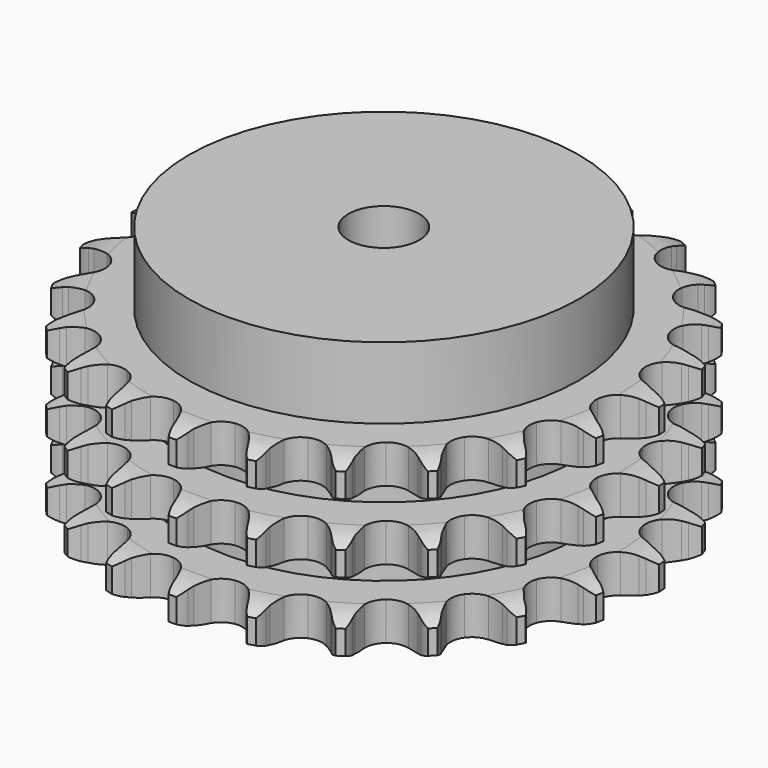
from build123d import *

# Parameters (mm, degrees)
PAD_DEPTH         = 49.8
SKETCH001_R       = 55
PAD001_DEPTH      = 70
SKETCH002_R       = 10
POCKET_DEPTH      = 0.001
POCKET_DEPTH_BACK = 70.001


with BuildPart() as part:
    # Sprocket → Pad (new body)
    with BuildSketch(Plane.XY):
        with BuildLine():
            ThreePointArc((-10.340591, 75.233389), (-8.706627, 73.474325), (-7.542965, 71.374317))
            Line((-7.542965, 71.374317), (-6.957807, 69.929158))
            ThreePointArc((-6.957807, 69.929158), (-6.022333, 68.005597), (-4.834996, 66.226432))
            ThreePointArc((-4.834996, 66.226432), (-2.694216, 64.47463), (0, 63.847774))
            ThreePointArc((0, 63.847774), (2.694216, 64.47463), (4.834996, 66.226432))
            ThreePointArc((4.834996, 66.226432), (6.022333, 68.005597), (6.957807, 69.929158))
            Line((6.957807, 69.929158), (7.542965, 71.374317))
            ThreePointArc((7.542965, 71.374317), (8.706627, 73.474325), (10.340591, 75.233389))
            ThreePointArc((10.340591, 75.233389), (11.439374, 73.098718), (11.993309, 70.762631))
            Line((11.993309, 70.762631), (12.166869, 69.213188))
            ThreePointArc((12.166869, 69.213188), (12.548682, 67.108571), (13.211976, 65.075043))
            ThreePointArc((13.211976, 65.075043), (14.80074, 62.810627), (17.225923, 61.480126))
            ThreePointArc((17.225923, 61.480126), (19.989354, 61.356845), (22.523379, 62.46611))
            Line((22.523379, 62.46611), (25.566453, 65.458801))
            ThreePointArc((25.566453, 65.458801), (26.027866, 66.087446), (26.519812, 66.692496))
            ThreePointArc((26.519812, 66.692496), (28.206897, 68.400678), (30.25486, 69.653673))
            ThreePointArc((30.25486, 69.653673), (30.736969, 67.301713), (30.640094, 64.902805))
            Line((30.640094, 64.902805), (30.389183, 63.363994))
            ThreePointArc((30.389183, 63.363994), (30.189019, 61.234409), (30.279076, 59.097335))
            ThreePointArc((30.279076, 59.097335), (31.197993, 56.488247), (33.174279, 54.552777))
            ThreePointArc((33.174279, 54.552777), (35.801974, 53.688504), (38.541306, 54.072962))
            Line((38.541306, 54.072962), (42.278953, 56.133664))
            ThreePointArc((42.278953, 56.133664), (42.892862, 56.61451), (43.529805, 57.064398))
            ThreePointArc((43.529805, 57.064398), (45.615191, 58.254066), (47.925263, 58.908062))
            ThreePointArc((47.925263, 58.908062), (47.754944, 56.513248), (47.014443, 54.229435))
            Line((47.014443, 54.229435), (46.35767, 52.815382))
            ThreePointArc((46.35767, 52.815382), (45.590374, 50.818771), (45.100516, 48.736648))
            ThreePointArc((45.100516, 48.736648), (45.281433, 45.976392), (46.66225, 43.579499))
            ThreePointArc((46.66225, 43.579499), (48.959324, 42.038332), (51.7008, 41.66947))
            Line((51.7008, 41.66947), (55.855816, 42.645351))
            ThreePointArc((55.855816, 42.645351), (56.57669, 42.942734), (57.311392, 43.204094))
            ThreePointArc((57.311392, 43.204094), (59.640415, 43.787016), (62.04127, 43.79351))
            ThreePointArc((62.04127, 43.79351), (61.231153, 41.533454), (59.901946, 39.534115))
            Line((59.901946, 39.534115), (58.888022, 38.349694))
            ThreePointArc((58.888022, 38.349694), (57.6105, 36.634138), (56.577057, 34.761388))
            ThreePointArc((56.577057, 34.761388), (56.006557, 32.054678), (56.689495, 29.374129))
            ThreePointArc((56.689495, 29.374129), (58.485586, 27.270369), (61.025883, 26.175544))
            Line((61.025883, 26.175544), (65.290109, 25.994227))
            ThreePointArc((65.290109, 25.994227), (66.064484, 26.086093), (66.842455, 26.139541))
            ThreePointArc((66.842455, 26.139541), (69.242382, 26.072483), (71.555959, 25.430994))
            ThreePointArc((71.555959, 25.430994), (70.166127, 23.473313), (68.346796, 21.906731))
            Line((68.346796, 21.906731), (67.050918, 21.039785))
            ThreePointArc((67.050918, 21.039785), (65.357918, 19.732518), (63.857537, 18.208034))
            ThreePointArc((63.857537, 18.208034), (62.57793, 15.755615), (62.51234, 12.990214))
            ThreePointArc((62.51234, 12.990214), (63.674239, 10.479887), (65.824955, 8.740298))
            Line((65.824955, 8.740298), (69.882133, 7.41523))
            ThreePointArc((69.882133, 7.41523), (70.652577, 7.294765), (71.41612, 7.136337))
            ThreePointArc((71.41612, 7.136337), (73.708959, 6.424274), (75.76367, 5.182377))
            ThreePointArc((75.76367, 5.182377), (73.897201, 3.672264), (71.722677, 2.654625))
            Line((71.722677, 2.654625), (70.240954, 2.169452))
            ThreePointArc((70.240954, 2.169452), (68.258039, 1.367427), (66.401995, 0.304273))
            ThreePointArc((66.401995, 0.304273), (64.508185, -1.711969), (63.698931, -4.357126))
            ThreePointArc((63.698931, -4.357126), (64.140465, -7.08784), (65.742091, -9.343176))
            Line((65.742091, -9.343176), (69.291319, -11.713721))
            ThreePointArc((69.291319, -11.713721), (70.000692, -12.037582), (70.693177, -12.396136))
            ThreePointArc((70.693177, -12.396136), (72.708879, -13.700395), (74.352336, -15.450593))
            ThreePointArc((74.352336, -15.450593), (72.147657, -16.401139), (69.779215, -16.794362))
            Line((69.779215, -16.794362), (68.22154, -16.86178))
            ThreePointArc((68.22154, -16.86178), (66.095773, -17.099079), (64.02172, -17.622054))
            ThreePointArc((64.02172, -17.622054), (61.654163, -19.052585), (60.161263, -21.381318))
            ThreePointArc((60.161263, -21.381318), (59.849687, -24.129894), (60.783437, -26.73371))
            Line((60.783437, -26.73371), (63.561485, -29.973919))
            ThreePointArc((63.561485, -29.973919), (64.157176, -30.477156), (64.727244, -31.009245))
            ThreePointArc((64.727244, -31.009245), (66.316314, -32.808968), (67.426629, -34.937663))
            ThreePointArc((67.426629, -34.937663), (65.047252, -35.258146), (62.660548, -34.997789))
            Line((62.660548, -34.997789), (61.142447, -34.64245))
            ThreePointArc((61.142447, -34.64245), (59.031486, -34.297425), (56.893248, -34.241434))
            ThreePointArc((56.893248, -34.241434), (54.227533, -34.980157), (52.161709, -36.819755))
            ThreePointArc((52.161709, -36.819755), (51.12013, -39.382344), (51.316754, -42.141527))
            Line((51.316754, -42.141527), (53.117586, -46.011088))
            ThreePointArc((53.117586, -46.011088), (53.555416, -46.65638), (53.960789, -47.322539))
            ThreePointArc((53.960789, -47.322539), (55.005371, -49.48425), (55.500198, -51.833567))
            ThreePointArc((55.500198, -51.833567), (53.12259, -51.500217), (50.894634, -50.605589))
            Line((50.894634, -50.605589), (49.528698, -49.853849))
            ThreePointArc((49.528698, -49.853849), (47.589104, -48.952088), (45.545264, -48.321283))
            ThreePointArc((45.545264, -48.321283), (42.779096, -48.313411), (40.293561, -49.52744))
            ThreePointArc((40.293561, -49.52744), (38.599228, -51.713986), (38.044141, -54.423899))
            Line((38.044141, -54.423899), (38.734199, -58.635825))
            ThreePointArc((38.734199, -58.635825), (38.981695, -59.375313), (39.192308, -60.126138))
            ThreePointArc((39.192308, -60.126138), (39.614932, -62.489511), (39.457571, -64.885212))
            ThreePointArc((39.457571, -64.885212), (37.258068, -63.922752), (35.354098, -62.460205))
            Line((35.354098, -62.460205), (34.241632, -61.367816))
            ThreePointArc((34.241632, -61.367816), (32.617255, -59.976198), (30.819396, -58.817364))
            ThreePointArc((30.819396, -58.817364), (28.157928, -58.063481), (25.437023, -58.5619))
            ThreePointArc((25.437023, -58.5619), (23.215598, -60.210238), (21.949969, -62.6699))
            Line((21.949969, -62.6699), (21.478074, -66.911811))
            ThreePointArc((21.478074, -66.911811), (21.51688, -67.69065), (21.517113, -68.470456))
            ThreePointArc((21.517113, -68.470456), (21.286435, -70.860211), (20.488557, -73.124617))
            ThreePointArc((20.488557, -73.124617), (18.630285, -71.604429), (17.191511, -69.682432))
            Line((17.191511, -69.682432), (16.41502, -68.330412))
            ThreePointArc((16.41502, -68.330412), (15.226334, -66.552149), (13.807794, -64.95123))
            ThreePointArc((13.807794, -64.95123), (11.448416, -63.507248), (8.693937, -63.253093))
            ThreePointArc((8.693937, -63.253093), (6.110172, -64.240973), (4.227868, -66.267961))
            Line((4.227868, -66.267961), (2.629018, -70.225255))
            ThreePointArc((2.629018, -70.225255), (2.456257, -70.985682), (2.246092, -71.736633))
            ThreePointArc((2.246092, -71.736633), (1.37922, -73.975534), (0, -75.940705))
            ThreePointArc((0, -75.940705), (-1.37922, -73.975534), (-2.246092, -71.736633))
            Line((-2.246092, -71.736633), (-2.629018, -70.225255))
            ThreePointArc((-2.629018, -70.225255), (-3.293854, -68.19223), (-4.227868, -66.267961))
            ThreePointArc((-4.227868, -66.267961), (-6.110172, -64.240973), (-8.693937, -63.253093))
            ThreePointArc((-8.693937, -63.253093), (-11.448416, -63.507248), (-13.807794, -64.95123))
            Line((-13.807794, -64.95123), (-16.41502, -68.330412))
            ThreePointArc((-16.41502, -68.330412), (-16.786535, -69.016031), (-17.191511, -69.682432))
            ThreePointArc((-17.191511, -69.682432), (-18.630285, -71.604429), (-20.488557, -73.124617))
            ThreePointArc((-20.488557, -73.124617), (-21.286435, -70.860211), (-21.517113, -68.470456))
            Line((-21.517113, -68.470456), (-21.478074, -66.911811))
            ThreePointArc((-21.478074, -66.911811), (-21.569753, -64.774806), (-21.949969, -62.6699))
            ThreePointArc((-21.949969, -62.6699), (-23.215598, -60.210238), (-25.437023, -58.5619))
            ThreePointArc((-25.437023, -58.5619), (-28.157928, -58.063481), (-30.819396, -58.817364))
            Line((-30.819396, -58.817364), (-34.241632, -61.367816))
            ThreePointArc((-34.241632, -61.367816), (-34.784347, -61.927776), (-35.354098, -62.460205))
            ThreePointArc((-35.354098, -62.460205), (-37.258068, -63.922752), (-39.457571, -64.885212))
            ThreePointArc((-39.457571, -64.885212), (-39.614932, -62.489511), (-39.192308, -60.126138))
            Line((-39.192308, -60.126138), (-38.734199, -58.635825))
            ThreePointArc((-38.734199, -58.635825), (-38.245921, -56.553331), (-38.044141, -54.423899))
            ThreePointArc((-38.044141, -54.423899), (-38.599228, -51.713986), (-40.293561, -49.52744))
            ThreePointArc((-40.293561, -49.52744), (-42.779096, -48.313411), (-45.545264, -48.321283))
            Line((-45.545264, -48.321283), (-49.528698, -49.853849))
            ThreePointArc((-49.528698, -49.853849), (-50.202364, -50.246622), (-50.894634, -50.605589))
            ThreePointArc((-50.894634, -50.605589), (-53.12259, -51.500217), (-55.500198, -51.833567))
            ThreePointArc((-55.500198, -51.833567), (-55.005371, -49.48425), (-53.960789, -47.322539))
            Line((-53.960789, -47.322539), (-53.117586, -46.011088))
            ThreePointArc((-53.117586, -46.011088), (-52.085565, -44.137554), (-51.316754, -42.141527))
            ThreePointArc((-51.316754, -42.141527), (-51.12013, -39.382344), (-52.161709, -36.819755))
            ThreePointArc((-52.161709, -36.819755), (-54.227533, -34.980157), (-56.893248, -34.241434))
            Line((-56.893248, -34.241434), (-61.142447, -34.64245))
            ThreePointArc((-61.142447, -34.64245), (-61.8971, -34.838905), (-62.660548, -34.997789))
            ThreePointArc((-62.660548, -34.997789), (-65.047252, -35.258146), (-67.426629, -34.937663))
            ThreePointArc((-67.426629, -34.937663), (-66.316314, -32.808968), (-64.727244, -31.009245))
            Line((-64.727244, -31.009245), (-63.561485, -29.973919))
            ThreePointArc((-63.561485, -29.973919), (-62.06226, -28.448297), (-60.783437, -26.73371))
            ThreePointArc((-60.783437, -26.73371), (-59.849687, -24.129894), (-60.161263, -21.381318))
            ThreePointArc((-60.161263, -21.381318), (-61.654163, -19.052585), (-64.02172, -17.622054))
            Line((-64.02172, -17.622054), (-68.22154, -16.86178))
            ThreePointArc((-68.22154, -16.86178), (-69.001212, -16.847346), (-69.779215, -16.794362))
            ThreePointArc((-69.779215, -16.794362), (-72.147657, -16.401139), (-74.352336, -15.450593))
            ThreePointArc((-74.352336, -15.450593), (-72.708879, -13.700395), (-70.693177, -12.396136))
            Line((-70.693177, -12.396136), (-69.291319, -11.713721))
            ThreePointArc((-69.291319, -11.713721), (-67.436082, -10.649159), (-65.742091, -9.343176))
            ThreePointArc((-65.742091, -9.343176), (-64.140465, -7.08784), (-63.698931, -4.357126))
            ThreePointArc((-63.698931, -4.357126), (-64.508185, -1.711969), (-66.401995, 0.304273))
            Line((-66.401995, 0.304273), (-70.240954, 2.169452))
            ThreePointArc((-70.240954, 2.169452), (-70.987819, 2.393703), (-71.722677, 2.654625))
            ThreePointArc((-71.722677, 2.654625), (-73.897201, 3.672264), (-75.76367, 5.182377))
            ThreePointArc((-75.76367, 5.182377), (-73.708959, 6.424274), (-71.41612, 7.136337))
            Line((-71.41612, 7.136337), (-69.882133, 7.41523))
            ThreePointArc((-69.882133, 7.41523), (-67.808478, 7.939778), (-65.824955, 8.740298))
            ThreePointArc((-65.824955, 8.740298), (-63.674239, 10.479887), (-62.51234, 12.990214))
            ThreePointArc((-62.51234, 12.990214), (-62.57793, 15.755615), (-63.857537, 18.208034))
            Line((-63.857537, 18.208034), (-67.050918, 21.039785))
            ThreePointArc((-67.050918, 21.039785), (-67.709585, 21.457223), (-68.346796, 21.906731))
            ThreePointArc((-68.346796, 21.906731), (-70.166127, 23.473313), (-71.555959, 25.430994))
            ThreePointArc((-71.555959, 25.430994), (-69.242382, 26.072483), (-66.842455, 26.139541))
            Line((-66.842455, 26.139541), (-65.290109, 25.994227))
            ThreePointArc((-65.290109, 25.994227), (-63.151829, 25.939858), (-61.025883, 26.175544))
            ThreePointArc((-61.025883, 26.175544), (-58.485586, 27.270369), (-56.689495, 29.374129))
            ThreePointArc((-56.689495, 29.374129), (-56.006557, 32.054678), (-56.577057, 34.761388))
            Line((-56.577057, 34.761388), (-58.888022, 38.349694))
            ThreePointArc((-58.888022, 38.349694), (-59.409641, 38.929358), (-59.901946, 39.534115))
            ThreePointArc((-59.901946, 39.534115), (-61.231153, 41.533454), (-62.04127, 43.79351))
            ThreePointArc((-62.04127, 43.79351), (-59.640415, 43.787016), (-57.311392, 43.204094))
            Line((-57.311392, 43.204094), (-55.855816, 42.645351))
            ThreePointArc((-55.855816, 42.645351), (-53.811498, 42.016097), (-51.7008, 41.66947))
            ThreePointArc((-51.7008, 41.66947), (-48.959324, 42.038332), (-46.66225, 43.579499))
            ThreePointArc((-46.66225, 43.579499), (-45.281433, 45.976392), (-45.100516, 48.736648))
            Line((-45.100516, 48.736648), (-46.35767, 52.815382))
            ThreePointArc((-46.35767, 52.815382), (-46.703555, 53.514281), (-47.014443, 54.229435))
            ThreePointArc((-47.014443, 54.229435), (-47.754944, 56.513248), (-47.925263, 58.908062))
            ThreePointArc((-47.925263, 58.908062), (-45.615191, 58.254066), (-43.529805, 57.064398))
            Line((-43.529805, 57.064398), (-42.278953, 56.133664))
            ThreePointArc((-42.278953, 56.133664), (-40.480215, 54.976195), (-38.541306, 54.072962))
            ThreePointArc((-38.541306, 54.072962), (-35.801974, 53.688504), (-33.174279, 54.552777))
            ThreePointArc((-33.174279, 54.552777), (-31.197993, 56.488247), (-30.279076, 59.097335))
            Line((-30.279076, 59.097335), (-30.389183, 63.363994))
            ThreePointArc((-30.389183, 63.363994), (-30.53368, 64.130295), (-30.640094, 64.902805))
            ThreePointArc((-30.640094, 64.902805), (-30.736969, 67.301713), (-30.25486, 69.653673))
            ThreePointArc((-30.25486, 69.653673), (-28.206897, 68.400678), (-26.519812, 66.692496))
            Line((-26.519812, 66.692496), (-25.566453, 65.458801))
            ThreePointArc((-25.566453, 65.458801), (-24.146699, 63.858959), (-22.523379, 62.46611))
            ThreePointArc((-22.523379, 62.46611), (-19.989354, 61.356845), (-17.225923, 61.480126))
            ThreePointArc((-17.225923, 61.480126), (-14.80074, 62.810627), (-13.211976, 65.075043))
            Line((-13.211976, 65.075043), (-12.166869, 69.213188))
            ThreePointArc((-12.166869, 69.213188), (-12.099262, 69.990058), (-11.993309, 70.762631))
            ThreePointArc((-11.993309, 70.762631), (-11.439374, 73.098718), (-10.340591, 75.233389))
        make_face()
    extrude(amount=PAD_DEPTH)

    # Sketch → Groove (revolve, cut)
    with BuildSketch(Plane.XZ):
        with BuildLine():
            ThreePointArc((66.014719, 0), (70.373618, 0.506758), (74.5, 2))
            Line((74.5, 2), (74.5, 8.8))
            ThreePointArc((74.5, 8.8), (70.373618, 10.293242), (66.014719, 10.8))
            Line((55, 10.8), (66.014719, 10.8))
            Line((55, 10.8), (55, 19.5))
            Line((55, 19.5), (66.014719, 19.5))
            ThreePointArc((66.014719, 19.5), (70.373618, 20.006758), (74.5, 21.5))
            Line((74.5, 28.3), (74.5, 21.5))
            ThreePointArc((74.5, 28.3), (70.373618, 29.793242), (66.014719, 30.3))
            Line((55, 30.3), (66.014719, 30.3))
            Line((55, 39), (55, 30.3))
            Line((66.014719, 39), (55, 39))
            ThreePointArc((66.014719, 39), (70.373618, 39.506758), (74.5, 41))
            Line((74.5, 41), (74.5, 47.8))
            ThreePointArc((74.5, 47.8), (70.373618, 49.293242), (66.014719, 49.8))
            Line((66.014719, 49.8), (84.5, 49.8))
            Line((84.5, 49.8), (84.5, 0))
            Line((66.014719, 0), (84.5, 0))
        make_face()
    revolve(axis=Axis((0, 0, 0), (0, 0, 1)), mode=Mode.SUBTRACT)

    # Sketch001 → Pad001 (join)
    with BuildSketch(Plane.XY):
        Circle(SKETCH001_R)
    extrude(amount=PAD001_DEPTH)

    # Sketch002 → Pocket (cut, two sides)
    with BuildSketch(Plane.XY) as pocket_sk:
        Circle(SKETCH002_R)
    extrude(amount=-POCKET_DEPTH, mode=Mode.SUBTRACT)
    extrude(pocket_sk.sketch, amount=POCKET_DEPTH_BACK, mode=Mode.SUBTRACT)


solid = part.part
